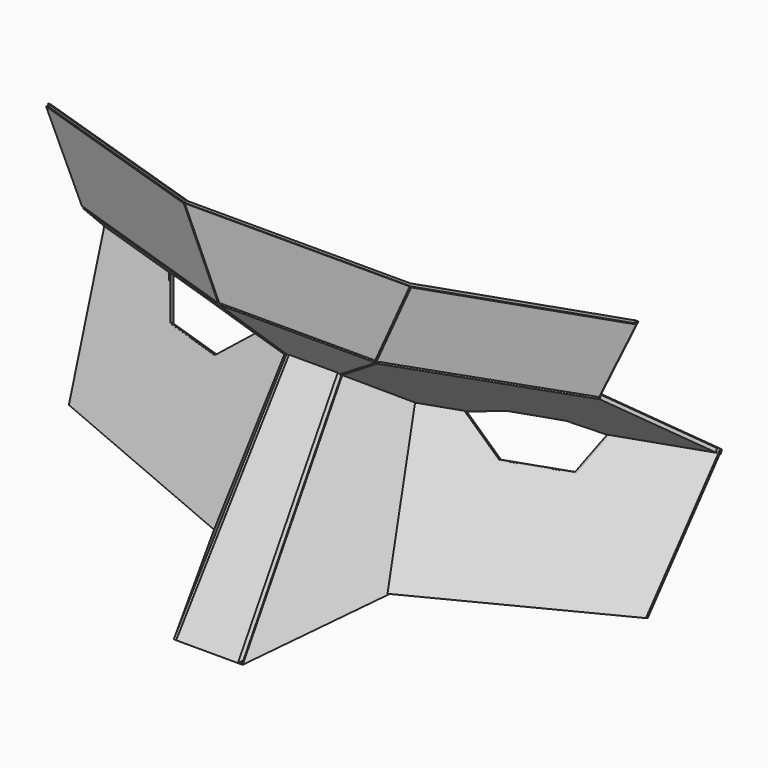
from build123d import *

# Parameters (mm, degrees)
F17_DEPTH = 1
F18_DEPTH = 1
F19_DEPTH = 1
F20_DEPTH = 1
F21_DEPTH = 1
F22_DEPTH = 1
F23_DEPTH = 1
F24_DEPTH = 1


with BuildPart() as f17:
    # F4 (on face) → F17 (new body)
    with BuildSketch(Plane(origin=(0, -27.6923076923, 18.4615384615), x_dir=(-1, 0, 0), z_dir=(0, 0.8320502943, -0.5547001962))):
        Polygon((0, -5.0769823397), (0, 49.9230176603), (-5.5, 49.9230176603), (-7, -5.0769823397), align=None)
    extrude(amount=-F17_DEPTH)



with BuildPart() as f18:
    # F6 (on face) → F18 (new body)
    with BuildSketch(Plane(origin=(20.2323563967, -11.4858345379, 8.3203939199), x_dir=(0.4299219493, 0.8853858987, 0.1768019455), z_dir=(0.8188475708, -0.4648567634, 0.3367444808))):
        Polygon((12.9726874522, 53.3990429211), (-21.4851809627, 10.5049255587), (8.4396185165, 12.6277482381), (24.455774925, 43.748203471), align=None)
    extrude(amount=F18_DEPTH)


with BuildPart() as f19:
    # F8 (on face) → F19 (new body)
    with BuildSketch(Plane(origin=(4.8053501819, -15.3618907739, 7.6432203914), x_dir=(-0.9629489756, -0.2414490977, 0.1201316097), z_dir=(-0.2696836488, 0.8621329558, -0.4289492931))):
        Polygon((-14.8009827937, 17.4534178176), (-9.6599579922, 52.0737855798), (-18.5647011331, 53.379752499), (-28.2916584396, 46.352213701), (-42.6343822268, 48.4820668331), (-46.8858296731, 57.5333205922), (-67.1688557163, 60.5080230193), (-62.6933705008, 27.8129158611), align=None)
    extrude(amount=-F19_DEPTH)


with BuildPart() as f20:
    # F10 (on 3pt) → F20 (new body)
    with BuildSketch(Plane(origin=(-9.1548198434, 27.6665002624, 29.3655492724), x_dir=(0.9752092929, 0.1517429862, 0.161061793), z_dir=(-0.2212845115, 0.6687371352, 0.7098054726))):
        Polygon((32.6463562181, -27.0957188494), (23.8535633809, -29.0158214828), (15.0273586911, -41.144222481), (27.5314988539, -50.3037245848), (69.2506974563, -42.194565074), (80.6394600631, -16.615353079), (60.611431934, -20.9889201884), (54.5101233323, -27.6051149669), (43.7738027725, -29.9991535705), align=None)
    extrude(amount=-F20_DEPTH)


with BuildPart() as f21:
    # F12 (on 3pt) → F21 (new body)
    with BuildSketch(Plane(origin=(0, 25.9269177768, 14.9071230511), x_dir=(-1, 0, 0), z_dir=(0, 0.866918652, 0.4984496473))):
        Polygon((-5.5, 52.0151191187), (0, 52.0151191187), (0, 61.5834322338), (-17.6941536866, 61.5834322338), align=None)
    extrude(amount=-F21_DEPTH)


with BuildPart() as f22:
    # F14 (on face) → F22 (new body)
    with BuildSketch(Plane(origin=(0, -4.8915048648, 0.0087522318), x_dir=(1, 0, 0), z_dir=(0, -0.9999983993, 0.001789269))):
        Polygon((0, 85.6087991728), (0, 68.2863061845), (17.6941536866, 68.2863061845), (25.5, 85.6087991728), align=None)
    extrude(amount=F22_DEPTH)


with BuildPart() as f23:
    # F16 (on 3pt) → F23 (new body)
    with BuildSketch(Plane(origin=(0.2488682272, -0.8172223653, -0.1106827247), x_dir=(-0.9573575318, -0.2862919438, -0.0387747249), z_dir=(-0.2889057916, 0.9486959304, 0.1284892032))):
        Polygon((-60.7194634198, 67.8234958605), (-18.2223306139, 68.3171589865), (-26.3758637032, 85.4787410279), (-69.3695216955, 84.7402476712), align=None)
    extrude(amount=-F23_DEPTH)


with BuildPart() as f17_1:
    add(f17.part)

    add(f18.part)  # F24 merges F18

    add(f19.part)  # F24 merges F19

    add(f20.part)  # F24 merges F20

    add(f21.part)  # F24 merges F21

    add(f22.part)  # F24 merges F22

    add(f23.part)  # F24 merges F23
    # F4 (on face) + F6 (on face) + F8 (on face) + F10 (on 3pt) + F12 (on 3pt) + F14 (on face) + F16 (on 3pt) → F24 (join)
    with BuildSketch(Plane(origin=(0, -27.6923076923, 18.4615384615), x_dir=(-1, 0, 0), z_dir=(0, 0.8320502943, -0.5547001962))):
        Polygon((0, -5.0769823397), (0, 49.9230176603), (-5.5, 49.9230176603), (-7, -5.0769823397), align=None)
    with BuildSketch(Plane(origin=(20.2323563967, -11.4858345379, 8.3203939199), x_dir=(0.4299219493, 0.8853858987, 0.1768019455), z_dir=(0.8188475708, -0.4648567634, 0.3367444808))):
        Polygon((12.9726874522, 53.3990429211), (-21.4851809627, 10.5049255587), (8.4396185165, 12.6277482381), (24.455774925, 43.748203471), align=None)
    with BuildSketch(Plane(origin=(4.8053501819, -15.3618907739, 7.6432203914), x_dir=(-0.9629489756, -0.2414490977, 0.1201316097), z_dir=(-0.2696836488, 0.8621329558, -0.4289492931))):
        Polygon((-14.8009827937, 17.4534178176), (-9.6599579922, 52.0737855798), (-18.5647011331, 53.379752499), (-28.2916584396, 46.352213701), (-42.6343822268, 48.4820668331), (-46.8858296731, 57.5333205922), (-67.1688557163, 60.5080230193), (-62.6933705008, 27.8129158611), align=None)
    with BuildSketch(Plane(origin=(-9.1548198434, 27.6665002624, 29.3655492724), x_dir=(0.9752092929, 0.1517429862, 0.161061793), z_dir=(-0.2212845115, 0.6687371352, 0.7098054726))):
        Polygon((32.6463562181, -27.0957188494), (23.8535633809, -29.0158214828), (15.0273586911, -41.144222481), (27.5314988539, -50.3037245848), (69.2506974563, -42.194565074), (80.6394600631, -16.615353079), (60.611431934, -20.9889201884), (54.5101233323, -27.6051149669), (43.7738027725, -29.9991535705), align=None)
    with BuildSketch(Plane(origin=(0, 25.9269177768, 14.9071230511), x_dir=(-1, 0, 0), z_dir=(0, 0.866918652, 0.4984496473))):
        Polygon((-5.5, 52.0151191187), (0, 52.0151191187), (0, 61.5834322338), (-17.6941536866, 61.5834322338), align=None)
    with BuildSketch(Plane(origin=(0, -4.8915048648, 0.0087522318), x_dir=(1, 0, 0), z_dir=(0, -0.9999983993, 0.001789269))):
        Polygon((0, 85.6087991728), (0, 68.2863061845), (17.6941536866, 68.2863061845), (25.5, 85.6087991728), align=None)
    with BuildSketch(Plane(origin=(0.2488682272, -0.8172223653, -0.1106827247), x_dir=(-0.9573575318, -0.2862919438, -0.0387747249), z_dir=(-0.2889057916, 0.9486959304, 0.1284892032))):
        Polygon((-60.7194634198, 67.8234958605), (-18.2223306139, 68.3171589865), (-26.3758637032, 85.4787410279), (-69.3695216955, 84.7402476712), align=None)
    extrude(amount=-F24_DEPTH, dir=(0, 0.8320502943, -0.5547001962))

    # F25: F17 across plane


with BuildPart() as f17_2:
    add(f17_1.part)
    add(f17_1.part.mirror(Plane.YZ))


solid = f17_2.part
